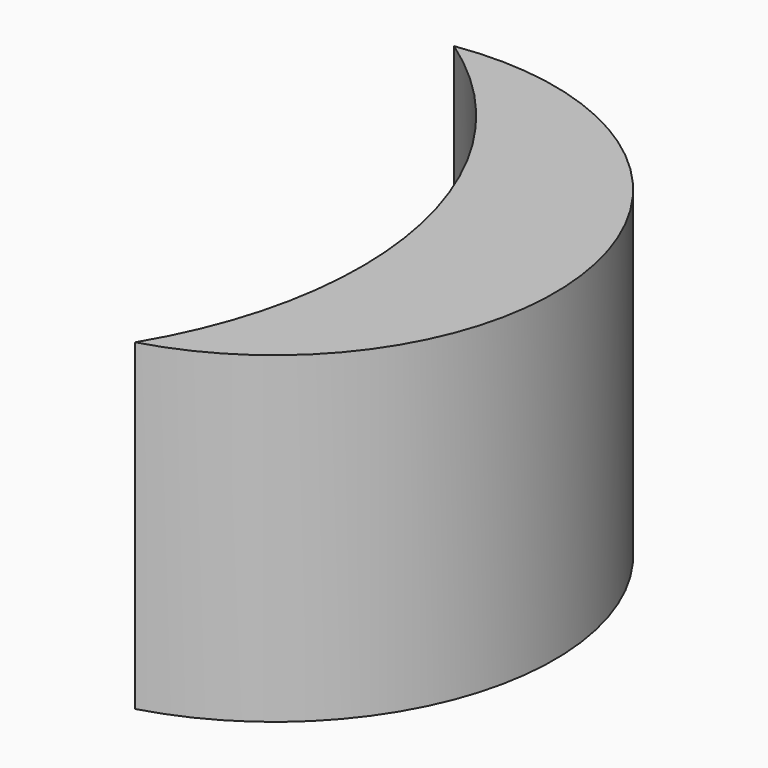
from build123d import *

# Parameters (mm, degrees)
F1_DEPTH = 25


with BuildPart() as f1:
    # F0 (on Top) → F1 (new body)
    with BuildSketch(Plane.XY):
        with BuildLine():
            ThreePointArc((25.490784, 9.455331), (38.455874, -9.896047), (34.666747, -32.878908))
            ThreePointArc((34.666747, -32.878908), (49.944476, -7.405888), (25.490784, 9.455331))
        make_face()
    extrude(amount=F1_DEPTH)


solid = f1.part
